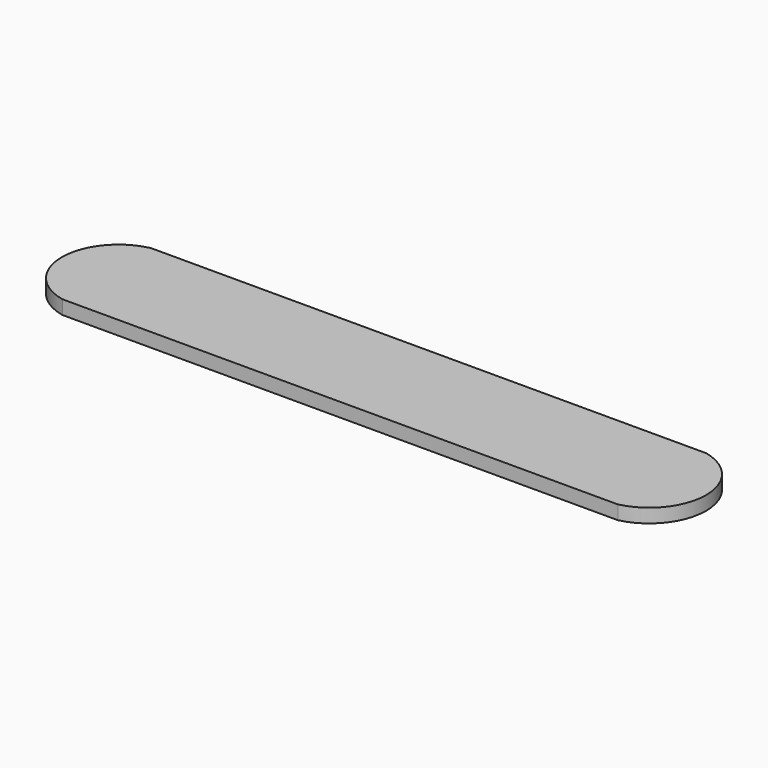
from build123d import *

# Parameters (mm, degrees)
F0_W     = 1016
F0_H     = 202.501742
F1_DEPTH = 25.4


with BuildPart() as f1:
    # F0 (on Top) → F1 (new body)
    with BuildSketch(Plane.XY):
        Rectangle(F0_W, F0_H)
        with BuildLine():
            Line((-508, -101.250871), (-508, 101.250871))
            ThreePointArc((-508, 101.250871), (-589.78424, 0), (-508, -101.250871))
        make_face()
        with BuildLine():
            ThreePointArc((508, -101.250871), (588.317044, 0), (508, 101.250871))
            Line((508, 101.250871), (508, -101.250871))
        make_face()
    extrude(amount=F1_DEPTH)


solid = f1.part
